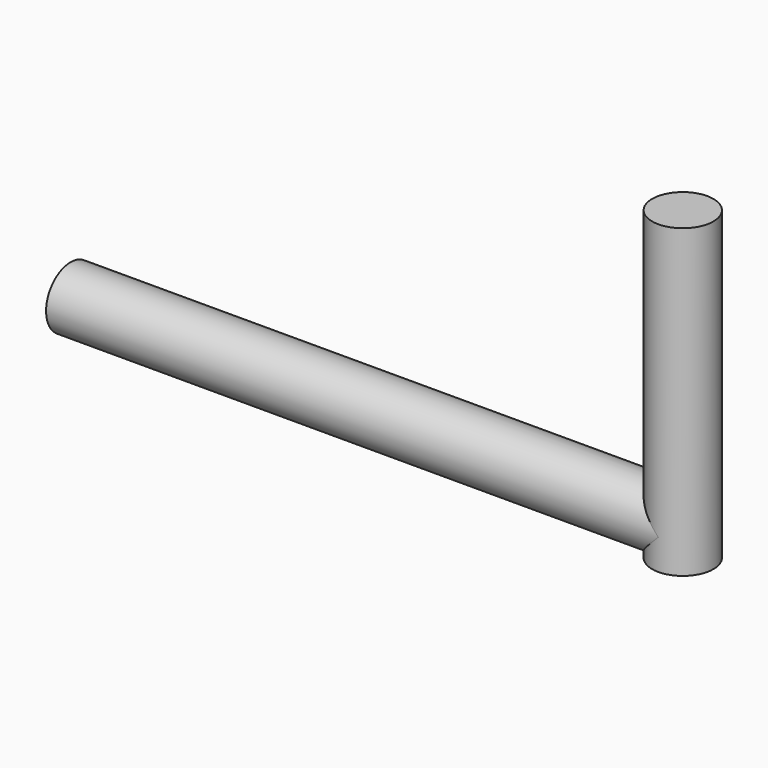
from build123d import *

# Parameters (mm, degrees)
BOX064_W          = 10
BOX064_H          = 10
BOX064_DEPTH      = 10
CYLINDER002_R     = 1
CYLINDER002_DEPTH = 9
CYLINDER001_R     = 1
CYLINDER001_DEPTH = 21
CYLINDER003_R     = 1
CYLINDER003_DEPTH = 10


with BuildPart() as box064:
    # Box064 → Box064 (new body)
    with BuildSketch(Plane(origin=(47, 14, 0), x_dir=(1, 0, 0), z_dir=(0, 0, 1))):
        with Locations((5, 5)):
            Rectangle(BOX064_W, BOX064_H)
    extrude(amount=BOX064_DEPTH)


with BuildPart() as cylinder002:
    # Cylinder002 → Cylinder002 (new body)
    with BuildSketch(Plane(origin=(47, 23, 7), x_dir=(1, 0, 0), z_dir=(0, 0, 1))):
        Circle(CYLINDER002_R)
    extrude(amount=CYLINDER002_DEPTH)


with BuildPart() as cut022:
    # Cylinder001 → Cylinder001 (new body)
    with BuildSketch(Plane(origin=(48, 23, 8), x_dir=(0, 0, 1), z_dir=(-1, 0, 0))):
        Circle(CYLINDER001_R)
    extrude(amount=CYLINDER001_DEPTH)

    # Cut021: cut Cylinder002
    add(cylinder002.part, mode=Mode.SUBTRACT)

    # Cut022: cut Box064
    add(box064.part, mode=Mode.SUBTRACT)


with BuildPart() as fusion025:
    # Cylinder003 → Cylinder003 (new body)
    with BuildSketch(Plane(origin=(47, 23, 7), x_dir=(1, 0, 0), z_dir=(0, 0, 1))):
        Circle(CYLINDER003_R)
    extrude(amount=CYLINDER003_DEPTH)

    # Fusion025: union Cut022
    add(cut022.part)


solid = fusion025.part
